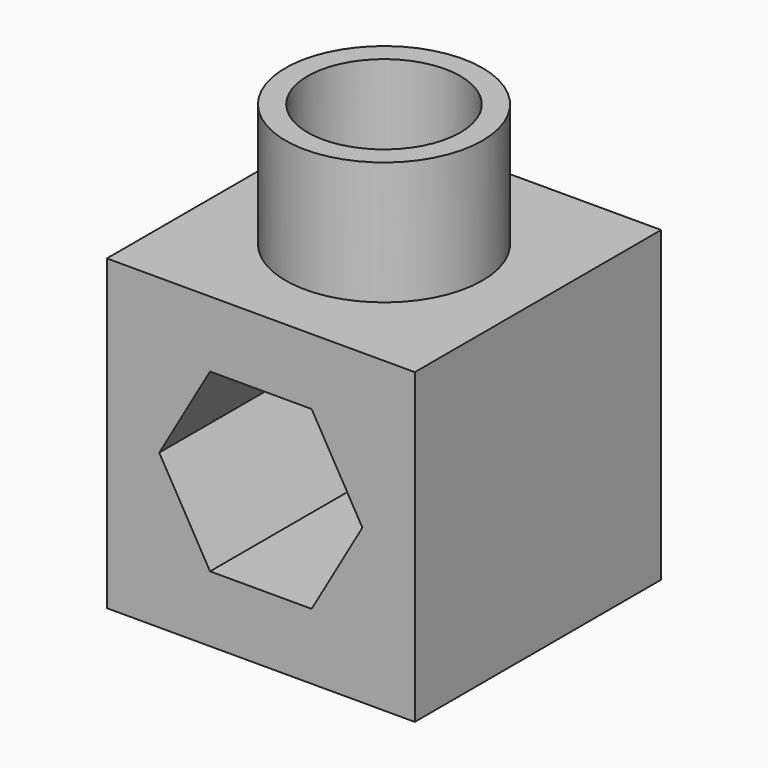
from build123d import *

# Parameters (mm, degrees)
F0_W     = 150
F0_H     = 150
F1_DEPTH = 150
F2_R     = 47.966338
F2_R_2   = 37.217605
F3_DEPTH = 60
F5_DEPTH = 150.001
F6_R     = 14.151474
F7_DEPTH = 32.145534


with BuildPart() as f1:
    # F0 (on Front) → F1 (new body)
    with BuildSketch(Plane.XZ):
        Rectangle(F0_W, F0_H)
    extrude(amount=F1_DEPTH)

    # F2 (on face) → F3 (join)
    with BuildSketch(Plane.XY.offset(75)):
        with Locations((0, -75)):
            Circle(F2_R)
        with Locations((0, -75)):
            Circle(F2_R_2, mode=Mode.SUBTRACT)
    extrude(amount=F3_DEPTH)

    # F4 (on face) → F5 (cut, through all)
    with BuildSketch(Plane.XZ.offset(150)):
        Polygon((49.484075, 0), (24.742038, 42.854466), (-24.742038, 42.854466), (-49.484075, 0), (-24.742038, -42.854466), (24.742038, -42.854466), align=None)
    extrude(amount=-F5_DEPTH, mode=Mode.SUBTRACT)

    # F6 (on face) → F7 (cut, through all)
    with BuildSketch(Plane.XY.offset(75)):
        with Locations((0, -75)):
            Circle(F6_R)
    extrude(amount=-F7_DEPTH, mode=Mode.SUBTRACT)


solid = f1.part
